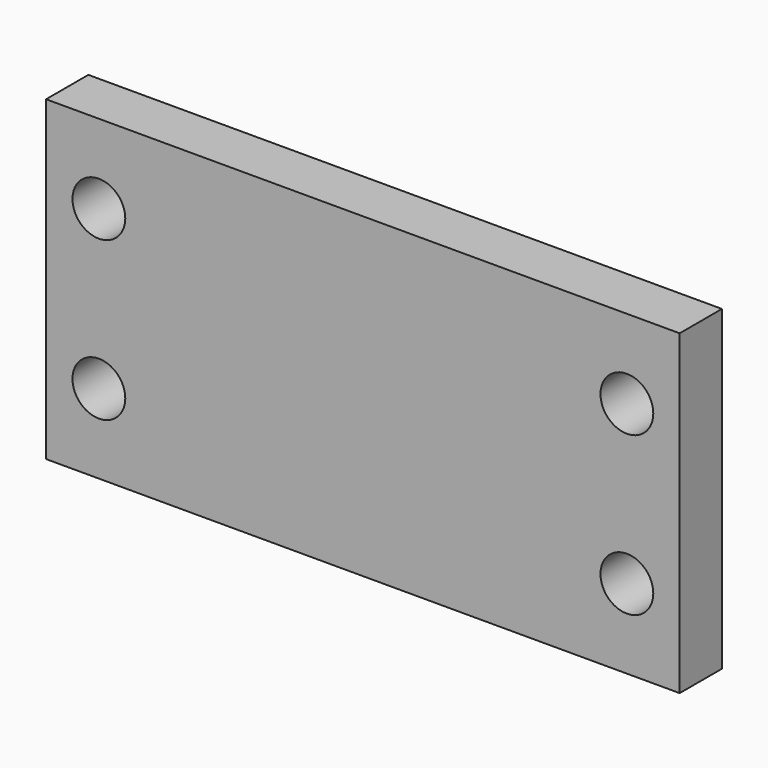
from build123d import *

# Parameters (mm, degrees)
F0_W     = 152.4
F0_H     = 38.1
F0_R     = 6.35
F1_DEPTH = 12.7
F2_DEPTH = 12.7


with BuildPart() as f1:
    # F0 (on Front) → F1 (new body)
    with BuildSketch(Plane.XZ):
        with Locations((-0.336899, 18.955347)):
            Rectangle(F0_W, F0_H)
        with Locations((-63.836899, 18.955347)):
            Circle(F0_R, mode=Mode.SUBTRACT)
        with Locations((63.163101, 18.955347)):
            Circle(F0_R, mode=Mode.SUBTRACT)
    extrude(amount=F1_DEPTH)

    # F0 (on Front) → F2 (join)
    with BuildSketch(Plane.XZ):
        Polygon((75.863101, -0.094653), (-76.536899, -0.094653), (-76.536899, -38.194653), (-0.336899, -38.194653), (75.863101, -38.194653), align=None)
        with Locations((-63.836899, -19.144653)):
            Circle(F0_R, mode=Mode.SUBTRACT)
        with Locations((63.163101, -19.144653)):
            Circle(F0_R, mode=Mode.SUBTRACT)
    extrude(amount=F2_DEPTH)


solid = f1.part
